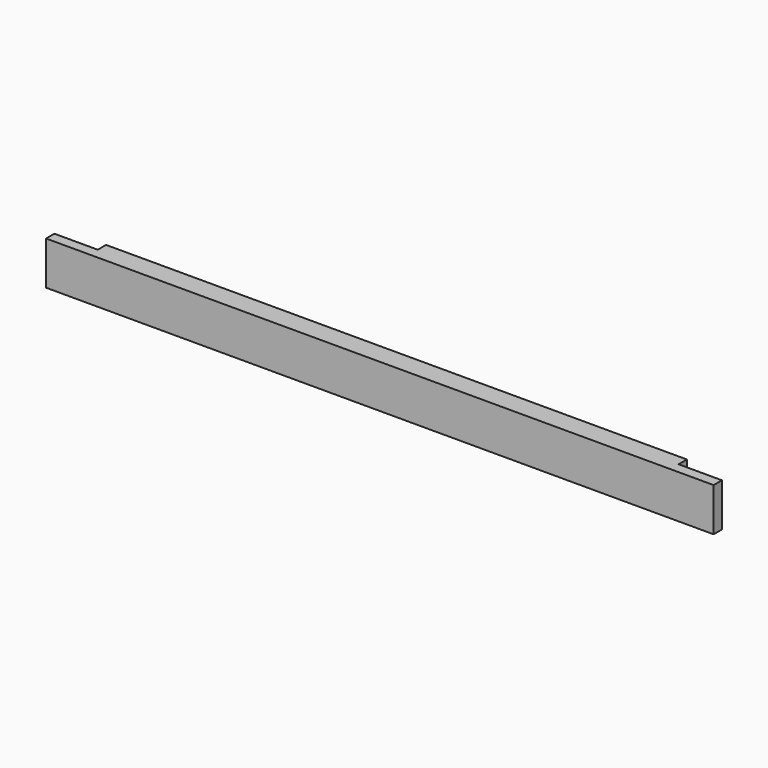
from build123d import *

# Parameters (mm, degrees)
F0_W     = 770
F0_H     = 50
F1_DEPTH = 24
F2_W     = 50
F2_H     = 50
F3_DEPTH = 12


with BuildPart() as f1:
    # F0 (on Front) → F1 (new body)
    with BuildSketch(Plane.XZ):
        Rectangle(F0_W, F0_H)
    extrude(amount=F1_DEPTH)

    # F2 (on face) → F3 (cut)
    with BuildSketch(Plane(origin=(0, 0, 0), x_dir=(-1, 0, 0), z_dir=(0, 1, 0))):
        with Locations((-360, 0)):
            Rectangle(F2_W, F2_H)
        with Locations((360, 0)):
            Rectangle(F2_W, F2_H)
    extrude(amount=-F3_DEPTH, mode=Mode.SUBTRACT)


solid = f1.part
